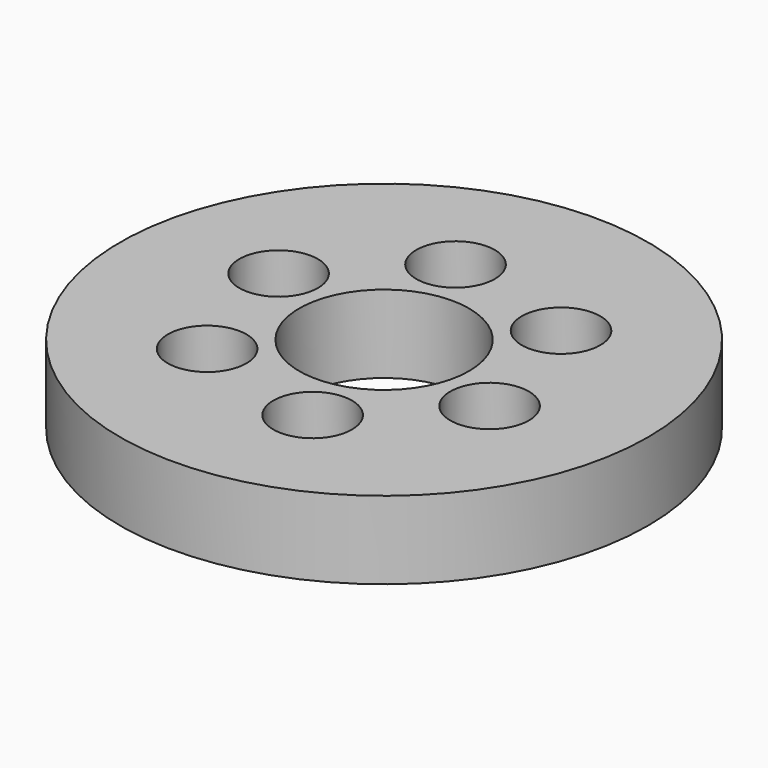
from build123d import *

# Parameters (mm, degrees)
F0_R     = 45.212
F1_DEPTH = 13.335
F2_R     = 2.5908
F3_DEPTH = 25.4
F4_R     = 14.5415
F5_DEPTH = 25.4
F6_R     = 6.731
F7_DEPTH = 10.795


with BuildPart() as f1:
    # F0 (on Top) → F1 (new body)
    with BuildSketch(Plane.XY):
        Circle(F0_R)
    extrude(amount=F1_DEPTH)

    # F2 (on face) → F3 (cut)
    with BuildSketch(Plane.XY.offset(13.335)):
        with Locations((-6.163129, 23.001109)):
            Circle(F2_R)
        with Locations((-23.001109, 6.163129)):
            Circle(F2_R)
        with Locations((-16.83798, -16.83798)):
            Circle(F2_R)
        with Locations((6.163129, -23.001109)):
            Circle(F2_R)
        with Locations((23.001109, -6.163129)):
            Circle(F2_R)
        with Locations((16.83798, 16.83798)):
            Circle(F2_R)
    extrude(amount=-F3_DEPTH, mode=Mode.SUBTRACT)

    # F4 (on face) → F5 (cut)
    with BuildSketch(Plane.XY.offset(13.335)):
        Circle(F4_R)
    extrude(amount=-F5_DEPTH, mode=Mode.SUBTRACT)

    # F6 (on face) → F7 (cut)
    with BuildSketch(Plane.XY.offset(13.335)):
        with Locations((-6.163129, 23.001109)):
            Circle(F6_R)
        with Locations((16.83798, 16.83798)):
            Circle(F6_R)
        with Locations((23.001109, -6.163129)):
            Circle(F6_R)
        with Locations((6.163129, -23.001109)):
            Circle(F6_R)
        with Locations((-16.83798, -16.83798)):
            Circle(F6_R)
        with Locations((-23.001109, 6.163129)):
            Circle(F6_R)
    extrude(amount=-F7_DEPTH, mode=Mode.SUBTRACT)


solid = f1.part
